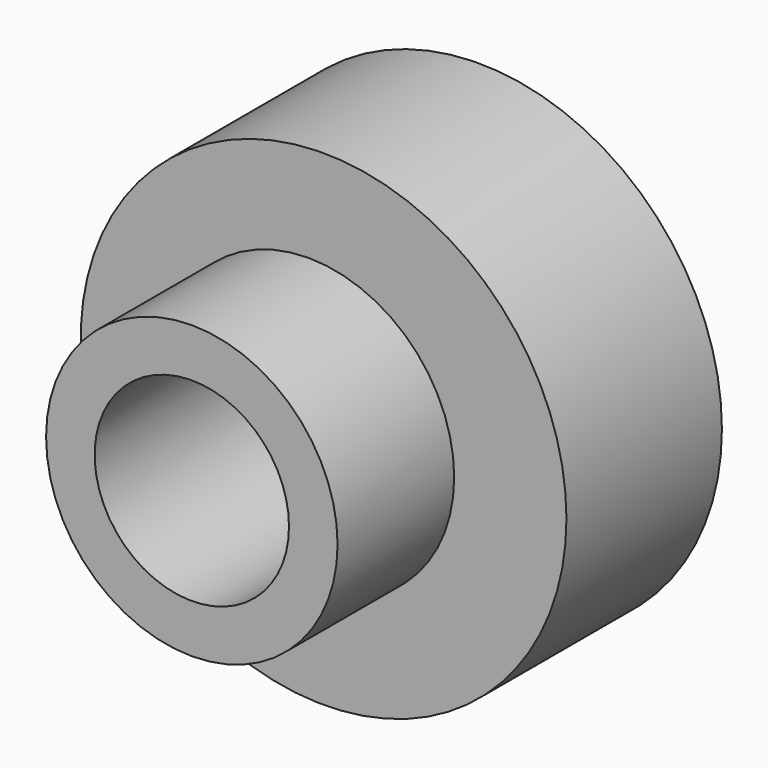
from build123d import *

# Parameters (mm, degrees)
F0_R     = 31.75
F1_DEPTH = 25.4
F2_R     = 19.05
F3_DEPTH = 19.05
F4_R     = 12.7
F5_DEPTH = 177.8


with BuildPart() as f1:
    # F0 (on Front) → F1 (new body)
    with BuildSketch(Plane.XZ):
        with Locations((1.976991, 0)):
            Circle(F0_R)
    extrude(amount=F1_DEPTH)

    # F2 (on face) → F3 (join)
    with BuildSketch(Plane.XZ.offset(25.4)):
        Circle(F2_R)
    extrude(amount=F3_DEPTH)

    # F4 (on face) → F5 (cut)
    with BuildSketch(Plane.XZ.offset(44.45)):
        Circle(F4_R)
    extrude(amount=-F5_DEPTH, mode=Mode.SUBTRACT)


solid = f1.part
